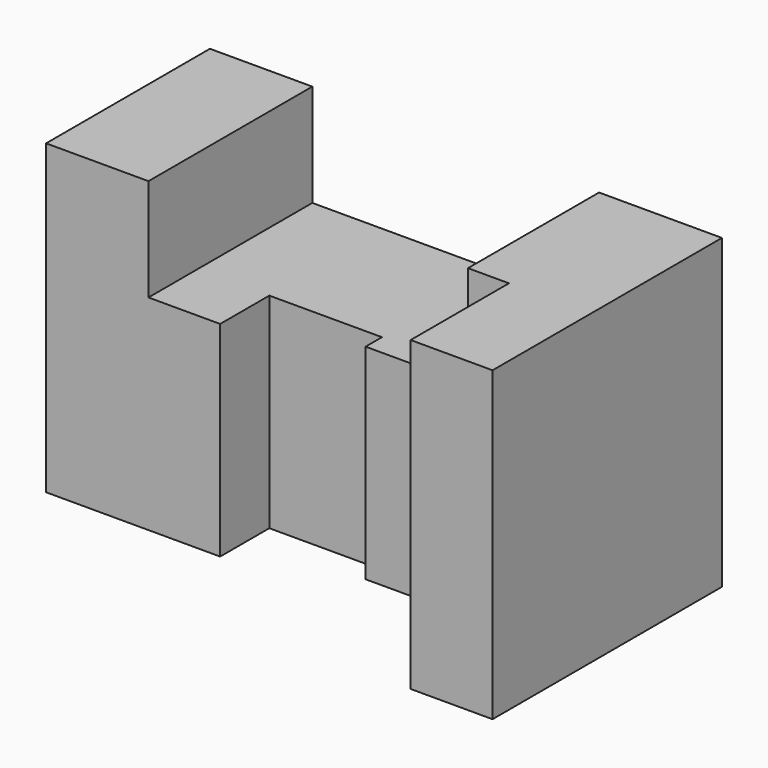
from build123d import *

# Parameters (mm, degrees)
F0_W     = 25
F0_H     = 50
F1_DEPTH = 75
F2_W     = 70
F2_H     = 25
F3_DEPTH = 50.001


with BuildPart() as f1:
    # F0 (on Top) → F1 (new body)
    with BuildSketch(Plane.XY):
        with Locations((12.5, 25)):
            Rectangle(F0_W, F0_H)
        Polygon((95, 50), (25, 50), (25, 0), (42.5, 0), (42.5, 15), (70, 15), (70, 10), (95, 10), align=None)
        Polygon((125, 50), (95, 50), (95, 10), (105, 10), (105, -20), (125, -20), align=None)
    extrude(amount=F1_DEPTH)

    # F2 (on Front) → F3 (cut, through all)
    with BuildSketch(Plane.XZ):
        with Locations((60, 62.5)):
            Rectangle(F2_W, F2_H)
    extrude(amount=-F3_DEPTH, mode=Mode.SUBTRACT)


solid = f1.part
